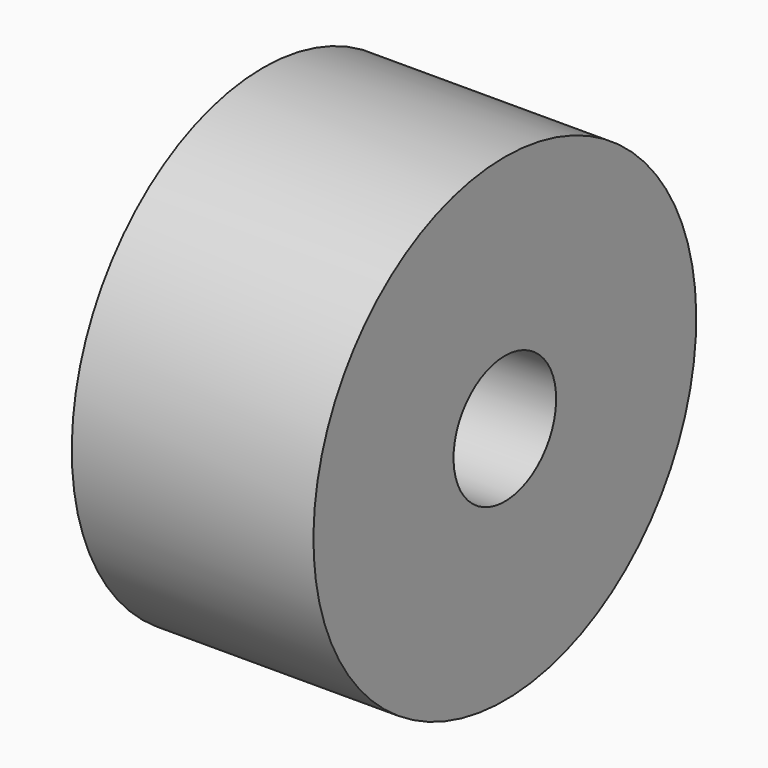
from build123d import *

# Parameters (mm, degrees)
F0_W = 40.86138
F0_H = 29.606146


with BuildPart() as f1:
    # F0 (on Front) → F1 (revolve)
    with BuildSketch(Plane.XZ):
        Rectangle(F0_W, F0_H)
    revolve(axis=Axis((5.057341, 0, -25.647936), (1, 0, 0)))


solid = f1.part
